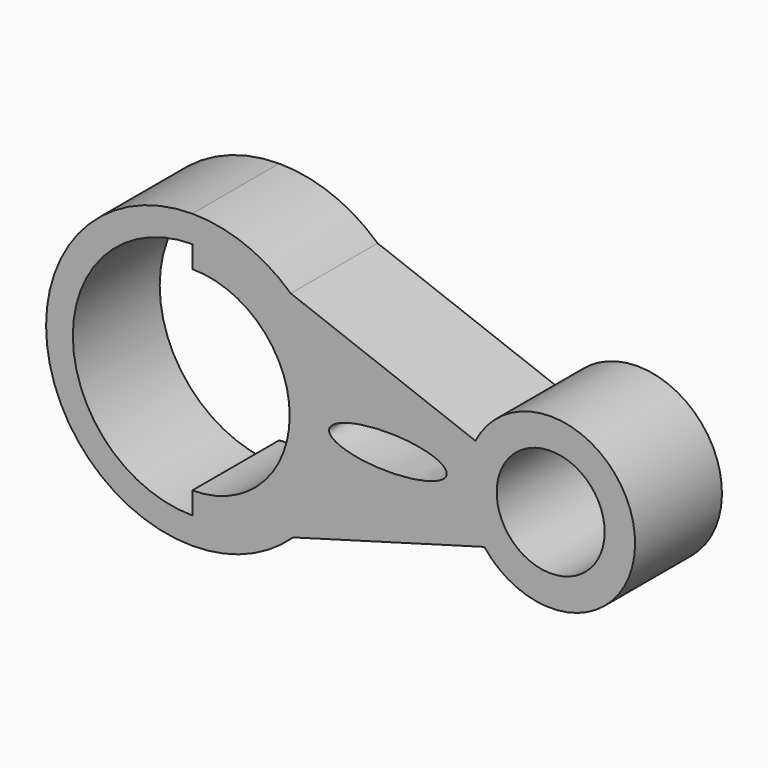
from build123d import *

# Parameters (mm, degrees)
F0_R     = 12.625919
F1_DEPTH = 25.4


with BuildPart() as f1:
    # F0 (on Front) → F1 (new body)
    with BuildSketch(Plane.XZ):
        with BuildLine():
            ThreePointArc((-34.56432, 22.793726), (-18.446722, 16.117598), (-11.770594, 0))
            ThreePointArc((-11.770594, 0), (-18.446722, -16.117598), (-34.56432, -22.793726))
            Line((-34.56432, -22.793726), (-34.56432, -27.944896))
            Line((-34.56432, -27.944896), (-34.56432, -34.207024))
            ThreePointArc((-34.56432, -34.207024), (-21.887846, -31.771489), (-11.016499, -24.811704))
            Line((-11.016499, -24.811704), (33.757029, -12.204615))
            ThreePointArc((33.757029, -12.204615), (68.943199, 1.925467), (31.683959, 8.959301))
            Line((31.683959, 8.959301), (-11.521441, 25.281342))
            ThreePointArc((-11.521441, 25.281342), (-22.208733, 31.897649), (-34.56432, 34.207024))
            Line((-34.56432, 34.207024), (-34.56432, 27.944896))
            Line((-34.56432, 27.944896), (-34.56432, 22.793726))
        make_face()
        with BuildLine():
            add(Edge.make_bspline(
                [(24.963118, 0), (24.963118, 6.981772), (4.32054, 3.490886), (-16.322038, 0), (4.32054, -3.490886), (24.963118, -6.981772), (24.963118, 0)],
                knots=[0, 0, 0, 2.094395, 2.094395, 4.18879, 4.18879, 6.283185, 6.283185, 6.283185], degree=2, weights=[1, 0.5, 1, 0.5, 1, 0.5, 1]))
        make_face(mode=Mode.SUBTRACT)
        with Locations((49.286161, 0)):
            Circle(F0_R, mode=Mode.SUBTRACT)
        with BuildLine():
            ThreePointArc((-34.56432, -27.944896), (-62.509216, 0), (-34.56432, 27.944896))
            Line((-34.56432, 27.944896), (-34.56432, 34.207024))
            ThreePointArc((-34.56432, 34.207024), (-68.771344, 0), (-34.56432, -34.207024))
            Line((-34.56432, -34.207024), (-34.56432, -27.944896))
        make_face()
    extrude(amount=F1_DEPTH)


solid = f1.part
